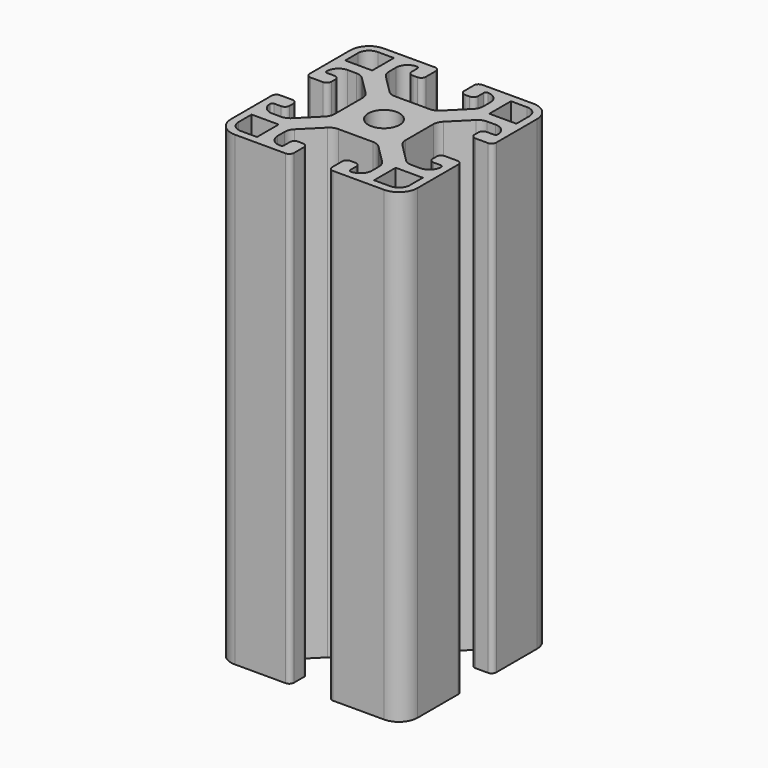
from build123d import *

# Parameters (mm, degrees)
F0_R     = 3.35
F1_DEPTH = 100


with BuildPart() as f1:
    # F0 (on Top) → F1 (new body)
    with BuildSketch(Plane.XY):
        with BuildLine():
            Line((20, -15.994185), (20, -5.1))
            ThreePointArc((20, -5.1), (19.707107, -4.392893), (19, -4.1))
            Line((19, -4.1), (16.35, -4.1))
            ThreePointArc((16.35, -4.1), (15.642893, -4.392893), (15.35, -5.1))
            Line((15.35, -5.1), (15.35, -6.1))
            ThreePointArc((15.35, -6.1), (15.642893, -6.807107), (16.35, -7.1))
            Line((16.35, -7.1), (17.85, -7.1))
            ThreePointArc((17.85, -7.1), (18.203553, -7.246447), (18.35, -7.6))
            ThreePointArc((18.35, -7.6), (17.617767, -9.367767), (15.85, -10.1))
            Line((15.85, -10.1), (13.993362, -10.1))
            ThreePointArc((13.993362, -10.1), (13.036864, -9.909786), (12.225917, -9.368088))
            Line((12.225917, -9.368088), (8.332554, -5.476141))
            ThreePointArc((8.332554, -5.476141), (7.790388, -4.664971), (7.6, -3.708053))
            Line((7.6, -3.708053), (7.6, 3.708053))
            ThreePointArc((7.6, 3.708053), (7.790388, 4.664971), (8.332554, 5.476141))
            Line((8.332554, 5.476141), (12.225917, 9.368088))
            ThreePointArc((12.225917, 9.368088), (13.036864, 9.909786), (13.993362, 10.1))
            Line((13.993362, 10.1), (15.85, 10.1))
            ThreePointArc((15.85, 10.1), (17.617767, 9.367767), (18.35, 7.6))
            ThreePointArc((18.35, 7.6), (18.203553, 7.246447), (17.85, 7.1))
            Line((17.85, 7.1), (16.35, 7.1))
            ThreePointArc((16.35, 7.1), (15.642893, 6.807107), (15.35, 6.1))
            Line((15.35, 6.1), (15.35, 5.1))
            ThreePointArc((15.35, 5.1), (15.642893, 4.392893), (16.35, 4.1))
            Line((16.35, 4.1), (19, 4.1))
            ThreePointArc((19, 4.1), (19.707107, 4.392893), (20, 5.1))
            Line((20, 5.1), (20, 16.004817))
            ThreePointArc((20, 16.004817), (18.827561, 18.834111), (15.997549, 20.004817))
            Line((15.997549, 20.004817), (5.10727, 19.998145))
            ThreePointArc((5.10727, 19.998145), (4.400057, 19.705509), (4.106906, 18.998508))
            Line((4.106906, 18.998508), (4.105943, 16.348509))
            ThreePointArc((4.105943, 16.348509), (4.398579, 15.641295), (5.105579, 15.348145))
            Line((5.105579, 15.348145), (6.105579, 15.347782))
            ThreePointArc((6.105579, 15.347782), (6.812793, 15.640418), (7.105943, 16.347418))
            Line((7.105943, 16.347418), (7.106488, 17.847418))
            ThreePointArc((7.106488, 17.847418), (7.253063, 18.200918), (7.60667, 18.347236))
            ThreePointArc((7.60667, 18.347236), (9.374171, 17.614361), (10.105761, 15.846328))
            Line((10.105761, 15.846328), (10.105086, 13.98969))
            ThreePointArc((10.105086, 13.98969), (9.914524, 13.03326), (9.372532, 12.222511))
            Line((9.372532, 12.222511), (5.479169, 8.330563))
            ThreePointArc((5.479169, 8.330563), (4.667803, 7.788692), (3.710815, 7.598652))
            Line((3.710815, 7.598652), (-3.710815, 7.598652))
            ThreePointArc((-3.710815, 7.598652), (-4.667803, 7.788692), (-5.479169, 8.330563))
            Line((-5.479169, 8.330563), (-9.372532, 12.222511))
            ThreePointArc((-9.372532, 12.222511), (-9.914524, 13.03326), (-10.105086, 13.98969))
            Line((-10.105086, 13.98969), (-10.105761, 15.846328))
            ThreePointArc((-10.105761, 15.846328), (-9.374171, 17.614361), (-7.60667, 18.347236))
            ThreePointArc((-7.60667, 18.347236), (-7.253063, 18.200918), (-7.106488, 17.847418))
            Line((-7.106488, 17.847418), (-7.105943, 16.347418))
            ThreePointArc((-7.105943, 16.347418), (-6.812793, 15.640418), (-6.105579, 15.347782))
            Line((-6.105579, 15.347782), (-5.105579, 15.348145))
            ThreePointArc((-5.105579, 15.348145), (-4.398579, 15.641295), (-4.105943, 16.348509))
            Line((-4.105943, 16.348509), (-4.106906, 18.998508))
            ThreePointArc((-4.106906, 18.998508), (-4.400057, 19.705509), (-5.10727, 19.998145))
            Line((-5.10727, 19.998145), (-16.001454, 19.994185))
            ThreePointArc((-16.001454, 19.994185), (-18.828941, 18.822098), (-20, 15.994185))
            Line((-20, 15.994185), (-20, 5.1))
            ThreePointArc((-20, 5.1), (-19.707107, 4.392893), (-19, 4.1))
            Line((-19, 4.1), (-16.35, 4.1))
            ThreePointArc((-16.35, 4.1), (-15.642893, 4.392893), (-15.35, 5.1))
            Line((-15.35, 5.1), (-15.35, 6.1))
            ThreePointArc((-15.35, 6.1), (-15.642893, 6.807107), (-16.35, 7.1))
            Line((-16.35, 7.1), (-17.85, 7.1))
            ThreePointArc((-17.85, 7.1), (-18.203553, 7.246447), (-18.35, 7.6))
            ThreePointArc((-18.35, 7.6), (-17.617767, 9.367767), (-15.85, 10.1))
            Line((-15.85, 10.1), (-13.993362, 10.1))
            ThreePointArc((-13.993362, 10.1), (-13.036864, 9.909786), (-12.225917, 9.368088))
            Line((-12.225917, 9.368088), (-8.332554, 5.476141))
            ThreePointArc((-8.332554, 5.476141), (-7.790388, 4.664971), (-7.6, 3.708053))
            Line((-7.6, 3.708053), (-7.6, -3.708053))
            ThreePointArc((-7.6, -3.708053), (-7.790388, -4.664971), (-8.332554, -5.476141))
            Line((-8.332554, -5.476141), (-12.225917, -9.368088))
            ThreePointArc((-12.225917, -9.368088), (-13.036864, -9.909786), (-13.993362, -10.1))
            Line((-13.993362, -10.1), (-15.85, -10.1))
            ThreePointArc((-15.85, -10.1), (-17.617767, -9.367767), (-18.35, -7.6))
            ThreePointArc((-18.35, -7.6), (-18.203553, -7.246447), (-17.85, -7.1))
            Line((-17.85, -7.1), (-16.35, -7.1))
            ThreePointArc((-16.35, -7.1), (-15.642893, -6.807107), (-15.35, -6.1))
            Line((-15.35, -6.1), (-15.35, -5.1))
            ThreePointArc((-15.35, -5.1), (-15.642893, -4.392893), (-16.35, -4.1))
            Line((-16.35, -4.1), (-19, -4.1))
            ThreePointArc((-19, -4.1), (-19.707107, -4.392893), (-20, -5.1))
            Line((-20, -5.1), (-20, -15.994185))
            ThreePointArc((-20, -15.994185), (-18.828941, -18.822098), (-16.001454, -19.994185))
            Line((-16.001454, -19.994185), (-5.10727, -19.998145))
            ThreePointArc((-5.10727, -19.998145), (-4.400057, -19.705509), (-4.106906, -18.998508))
            Line((-4.106906, -18.998508), (-4.105943, -16.348509))
            ThreePointArc((-4.105943, -16.348509), (-4.398579, -15.641295), (-5.105579, -15.348145))
            Line((-5.105579, -15.348145), (-6.105579, -15.347782))
            ThreePointArc((-6.105579, -15.347782), (-6.812793, -15.640418), (-7.105943, -16.347418))
            Line((-7.105943, -16.347418), (-7.106488, -17.847418))
            ThreePointArc((-7.106488, -17.847418), (-7.253063, -18.200918), (-7.60667, -18.347236))
            ThreePointArc((-7.60667, -18.347236), (-9.374171, -17.614361), (-10.105761, -15.846328))
            Line((-10.105761, -15.846328), (-10.105086, -13.98969))
            ThreePointArc((-10.105086, -13.98969), (-9.914524, -13.03326), (-9.372532, -12.222511))
            Line((-9.372532, -12.222511), (-5.479169, -8.330563))
            ThreePointArc((-5.479169, -8.330563), (-4.667803, -7.788692), (-3.710815, -7.598652))
            Line((-3.710815, -7.598652), (3.710815, -7.598652))
            ThreePointArc((3.710815, -7.598652), (4.667803, -7.788692), (5.479169, -8.330563))
            Line((5.479169, -8.330563), (9.372532, -12.222511))
            ThreePointArc((9.372532, -12.222511), (9.914524, -13.03326), (10.105086, -13.98969))
            Line((10.105086, -13.98969), (10.105761, -15.846328))
            ThreePointArc((10.105761, -15.846328), (9.374171, -17.614361), (7.60667, -18.347236))
            ThreePointArc((7.60667, -18.347236), (7.253063, -18.200918), (7.106488, -17.847418))
            Line((7.106488, -17.847418), (7.105943, -16.347418))
            ThreePointArc((7.105943, -16.347418), (6.812793, -15.640418), (6.105579, -15.347782))
            Line((6.105579, -15.347782), (5.105579, -15.348145))
            ThreePointArc((5.105579, -15.348145), (4.398579, -15.641295), (4.105943, -16.348509))
            Line((4.105943, -16.348509), (4.106906, -18.998508))
            ThreePointArc((4.106906, -18.998508), (4.400057, -19.705509), (5.10727, -19.998145))
            Line((5.10727, -19.998145), (16.001454, -19.994185))
            ThreePointArc((16.001454, -19.994185), (18.828941, -18.822098), (20, -15.994185))
        make_face()
        with BuildLine():
            ThreePointArc((-16.002998, -18.346327), (-17.664699, -17.658028), (-18.352998, -15.996327))
            Line((-18.352998, -15.996327), (-18.352998, -12.544276))
            Line((-18.352998, -12.544276), (-12.548836, -12.544276))
            Line((-12.548836, -12.544276), (-12.548836, -18.346327))
            Line((-12.548836, -18.346327), (-16.002998, -18.346327))
        make_face(mode=Mode.SUBTRACT)
        with BuildLine():
            ThreePointArc((18.352998, -15.996327), (17.664699, -17.658028), (16.002998, -18.346327))
            Line((16.002998, -18.346327), (12.548836, -18.346327))
            Line((12.548836, -18.346327), (12.548836, -12.544276))
            Line((12.548836, -12.544276), (18.352998, -12.544276))
            Line((18.352998, -12.544276), (18.352998, -15.996327))
        make_face(mode=Mode.SUBTRACT)
        Circle(F0_R, mode=Mode.SUBTRACT)
        with BuildLine():
            Line((-16.002998, 18.346327), (-12.548836, 18.346327))
            Line((-12.548836, 18.346327), (-12.548836, 12.544276))
            Line((-12.548836, 12.544276), (-18.352998, 12.544276))
            Line((-18.352998, 12.544276), (-18.352998, 15.996327))
            ThreePointArc((-18.352998, 15.996327), (-17.664699, 17.658028), (-16.002998, 18.346327))
        make_face(mode=Mode.SUBTRACT)
        with BuildLine():
            Line((12.548836, 18.346327), (16.002998, 18.346327))
            ThreePointArc((16.002998, 18.346327), (17.664699, 17.658028), (18.352998, 15.996327))
            Line((18.352998, 15.996327), (18.352998, 12.544276))
            Line((18.352998, 12.544276), (12.548836, 12.544276))
            Line((12.548836, 12.544276), (12.548836, 18.346327))
        make_face(mode=Mode.SUBTRACT)
    extrude(amount=F1_DEPTH)


solid = f1.part
